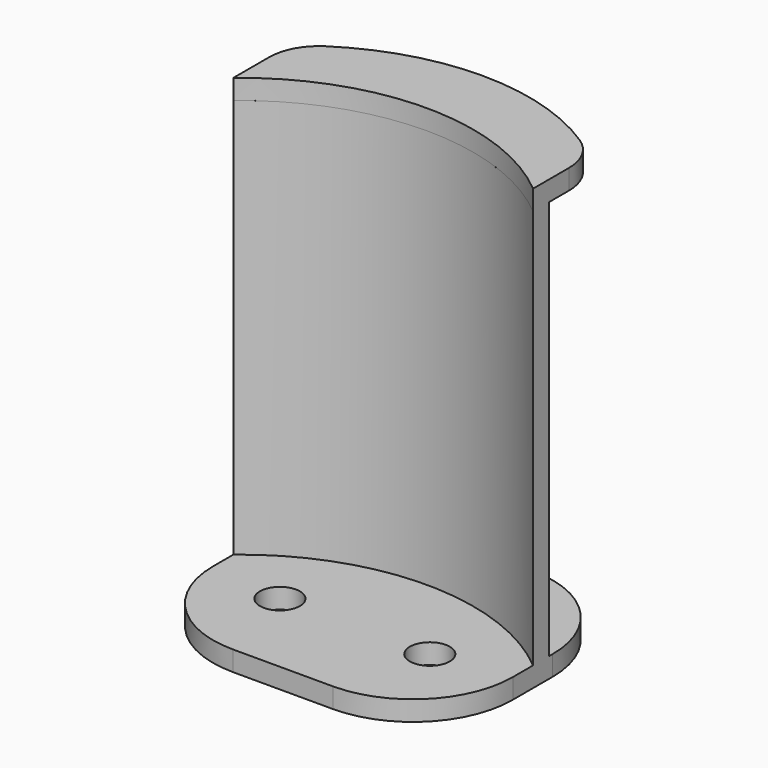
from build123d import *

# Parameters (mm, degrees)
SKETCH_W     = 30
SKETCH_H     = 25
PAD_DEPTH    = 2
FILLET_R     = 10
FILLET001_R  = 10
PAD001_DEPTH = 40
FILLET002_R  = 10
FILLET003_R  = 10
PAD002_DEPTH = 2
FILLET004_R  = 5
FILLET005_R  = 5
SKETCH003_R  = 2
POCKET_DEPTH = 5


with BuildPart() as part:
    # Sketch → Pad (new body)
    with BuildSketch(Plane.XY):
        with Locations((15, -12.5)):
            Rectangle(SKETCH_W, SKETCH_H)
    extrude(amount=PAD_DEPTH)

    # Fillet
    fillet_edges = [part.edges().sort_by_distance(p)[0] for p in [
        (0, -25, 1),
    ]]
    fillet(fillet_edges, radius=FILLET_R)

    # Fillet001
    fillet001_edges = [part.edges().sort_by_distance(p)[0] for p in [
        (30, -25, 1),
    ]]
    fillet(fillet001_edges, radius=FILLET001_R)

    # Sketch001 (on Face5 of Fillet001) → Pad001 (join)
    with BuildSketch(Plane.XY.offset(2)):
        with BuildLine():
            ThreePointArc((30, -10.46031), (15, -5), (0, -10.46031))
            Line((0, -12.46031), (0, -10.46031))
            ThreePointArc((30, -12.46031), (15, -7), (0, -12.46031))
            Line((30, -12.46031), (30, -10.46031))
        make_face()
    extrude(amount=PAD001_DEPTH)

    # Fillet002
    fillet002_edges = [part.edges().sort_by_distance(p)[0] for p in [
        (0, 0, 1),
    ]]
    fillet(fillet002_edges, radius=FILLET002_R)

    # Fillet003
    fillet003_edges = [part.edges().sort_by_distance(p)[0] for p in [
        (30, 0, 1),
    ]]
    fillet(fillet003_edges, radius=FILLET003_R)

    # Sketch002 (on Face16 of Fillet003) → Pad002 (join)
    with BuildSketch(Plane.XY.offset(42)):
        with BuildLine():
            ThreePointArc((30, -12.459868), (15, -7), (0, -12.459868))
            Line((0, -12.459868), (0, -5.459868))
            ThreePointArc((30, -5.459868), (15, 0), (0, -5.459868))
            Line((30, -12.459868), (30, -5.459868))
        make_face()
    extrude(amount=PAD002_DEPTH)

    # Fillet004
    fillet004_edges = [part.edges().sort_by_distance(p)[0] for p in [
        (0, -5.459868, 43),
    ]]
    fillet(fillet004_edges, radius=FILLET004_R)

    # Fillet005
    fillet005_edges = [part.edges().sort_by_distance(p)[0] for p in [
        (30, -5.459868, 43),
    ]]
    fillet(fillet005_edges, radius=FILLET005_R)

    # Sketch003 (on Face21 of Fillet005) → Pocket (cut)
    with BuildSketch(Plane.XY.offset(2)):
        with Locations((7.5, -16)):
            Circle(SKETCH003_R)
        with Locations((22.5, -16)):
            Circle(SKETCH003_R)
    extrude(amount=-POCKET_DEPTH, mode=Mode.SUBTRACT)


solid = part.part
